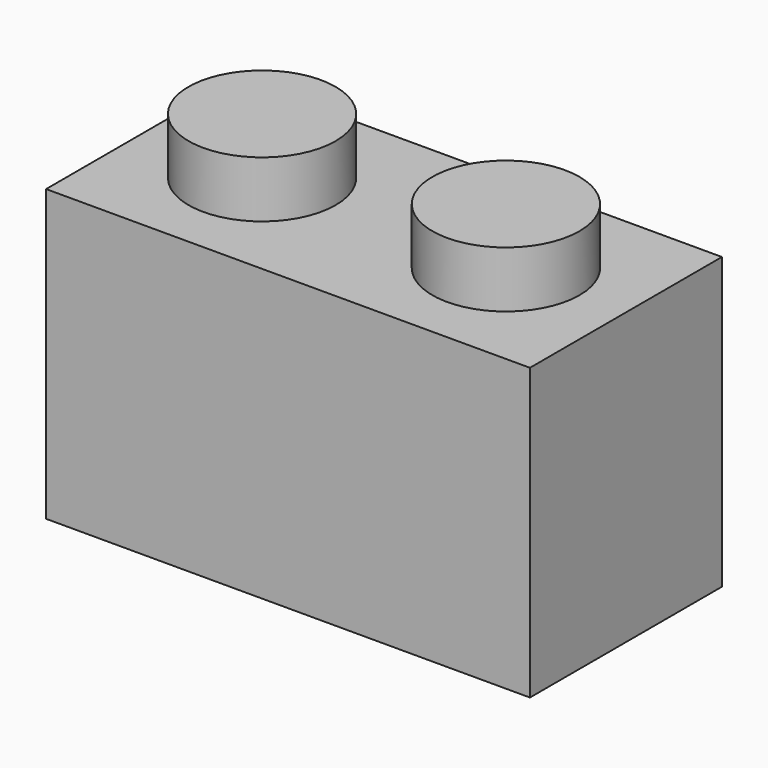
from build123d import *

# Parameters (mm, degrees)
F0_W     = 15.875
F0_H     = 9.525
F1_DEPTH = 7.874
F2_R     = 2.413
F3_DEPTH = 1.85
F4_W     = 12.827
F4_H     = 4.826
F4_R     = 1.524
F5_DEPTH = 6


with BuildPart() as f1:
    # F0 (on Front) → F1 (new body)
    with BuildSketch(Plane.XZ):
        with Locations((-0.280751, 4.087655)):
            Rectangle(F0_W, F0_H)
    extrude(amount=F1_DEPTH)

    # F2 (on face) → F3 (join)
    with BuildSketch(Plane.XY.offset(8.850155)):
        with Locations((-4.281251, -3.937)):
            Circle(F2_R)
        with Locations((3.719749, -3.937)):
            Circle(F2_R)
    extrude(amount=F3_DEPTH)

    # F4 (on face) → F5 (cut)
    with BuildSketch(Plane(origin=(0, 0, -0.674845), x_dir=(1, 0, 0), z_dir=(0, 0, -1))):
        with Locations((-0.280751, 3.937)):
            Rectangle(F4_W, F4_H)
        with Locations((-0.280751, 3.937)):
            Circle(F4_R, mode=Mode.SUBTRACT)
    extrude(amount=-F5_DEPTH, mode=Mode.SUBTRACT)


solid = f1.part
